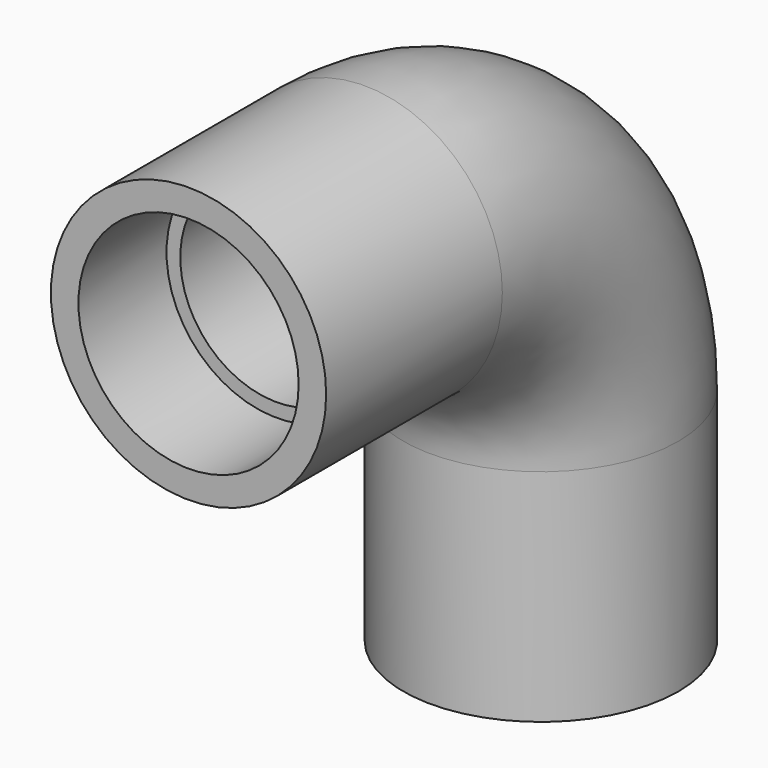
from build123d import *

# Parameters (mm, degrees)
F0_R     = 15.875
F0_R_2   = 11.1125
F3_R     = 12.7
F3_R_2   = 11.1125
F4_DEPTH = 12.7
F5_R     = 12.7
F6_DEPTH = 12.7


with BuildPart() as f2:
    # F2: sweep along a path in F1
    with BuildLine(Plane.YZ) as f2_path:
        Line((0, 0), (25.4, 0))
        ThreePointArc((25.4, 0), (43.3605122421, -7.4394877579), (50.8, -25.4))
        Line((50.8, -25.4), (50.8, -50.8))
    # F0 (on Front) → F2 (sweep)
    with BuildSketch(Plane.XZ):
        Circle(F0_R)
        Circle(F0_R_2, mode=Mode.SUBTRACT)
    sweep(path=f2_path.line)

    # F3 (on face) → F4 (cut)
    with BuildSketch(Plane.XZ):
        Circle(F3_R)
        Circle(F3_R_2, mode=Mode.SUBTRACT)
    extrude(amount=-F4_DEPTH, mode=Mode.SUBTRACT)

    # F5 (on face) → F6 (cut)
    with BuildSketch(Plane(origin=(0, 0, -50.8), x_dir=(1, 0, 0), z_dir=(0, 0, -1))):
        with Locations((0, -50.8)):
            Circle(F5_R)
    extrude(amount=-F6_DEPTH, mode=Mode.SUBTRACT)


solid = f2.part
